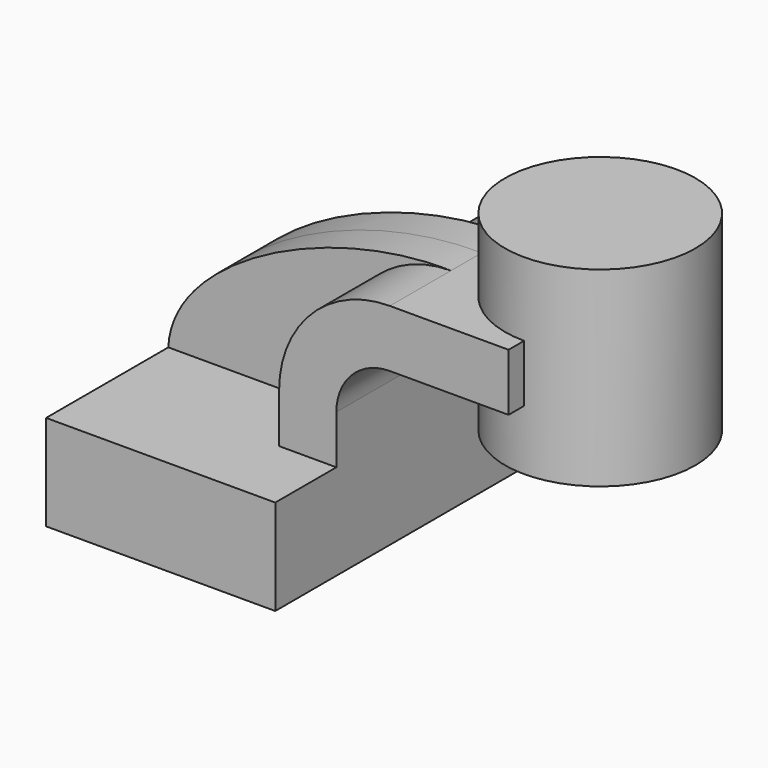
from build123d import *

# Parameters (mm, degrees)
F1_DEPTH = 63.5
F0_W     = 19.151572957
F0_H     = 19.05
F2_DEPTH = 38.1
F3_DEPTH = 12.7


with BuildPart() as f1:
    # F0 (on Front) → F1 (new body, symmetric)
    with BuildSketch(Plane.XZ):
        Polygon((19.05, 15.875), (-38.1, 15.875), (-38.1, -15.875), (38.1, -15.875), (38.1, 15.875), align=None)
    extrude(amount=F1_DEPTH, both=True)

    # F0 (on Front) → F2 (join, symmetric)
    with BuildSketch(Plane.XZ):
        with BuildLine():
            Line((19.05, 32.0585994233), (19.05, 15.875))
            Line((19.05, 15.875), (38.1, 15.875))
            Line((38.1, 15.875), (38.1, 32.0585994233))
            ThreePointArc((38.1, 32.0585994233), (43.3076414305, 44.6309579928), (55.88, 49.8385994233))
            Line((55.88, 49.8385994233), (76.2, 49.8385994233))
            Line((76.2, 49.8385994233), (76.2, 68.8885994233))
            Line((76.2, 68.8885994233), (55.88, 68.8885994233))
            ThreePointArc((55.88, 68.8885994233), (29.8372572489, 58.1013421744), (19.05, 32.0585994233))
        make_face()
        with Locations((85.7757864785, 59.3635994233)):
            Rectangle(F0_W, F0_H)
    extrude(amount=F2_DEPTH, both=True)

    # F0 (on Front) → F3 (join, symmetric)
    with BuildSketch(Plane.XZ):
        with BuildLine():
            add(Edge.make_bspline(
                [(-38.1, 15.875), (-36.8803367019, 43.9477860928), (14.5305916667, 69.8257684708), (55.88, 68.8885994233)],
                knots=[0, 0, 0, 0, 107.9012609927, 107.9012609927, 107.9012609927, 107.9012609927], degree=3))
            Line((-38.1, 15.875), (19.05, 15.875))
            Line((19.05, 15.875), (19.05, 32.0585994233))
            ThreePointArc((19.05, 32.0585994233), (29.8372572489, 58.1013421744), (55.88, 68.8885994233))
        make_face()
    extrude(amount=F3_DEPTH, both=True)

    # F0 (on Front) → F4 (revolve)
    with BuildSketch(Plane.XZ):
        Polygon((95.351572957, 93.3624118266), (95.351572957, 68.8885994233), (95.351572957, 49.8385994233), (95.351572957, 29.8624118266), (127, 29.8624118266), (127, 93.3624118266), align=None)
    revolve(axis=Axis((95.351572957, 0, 61.6124118266), (0, 0, 1)))


solid = f1.part
